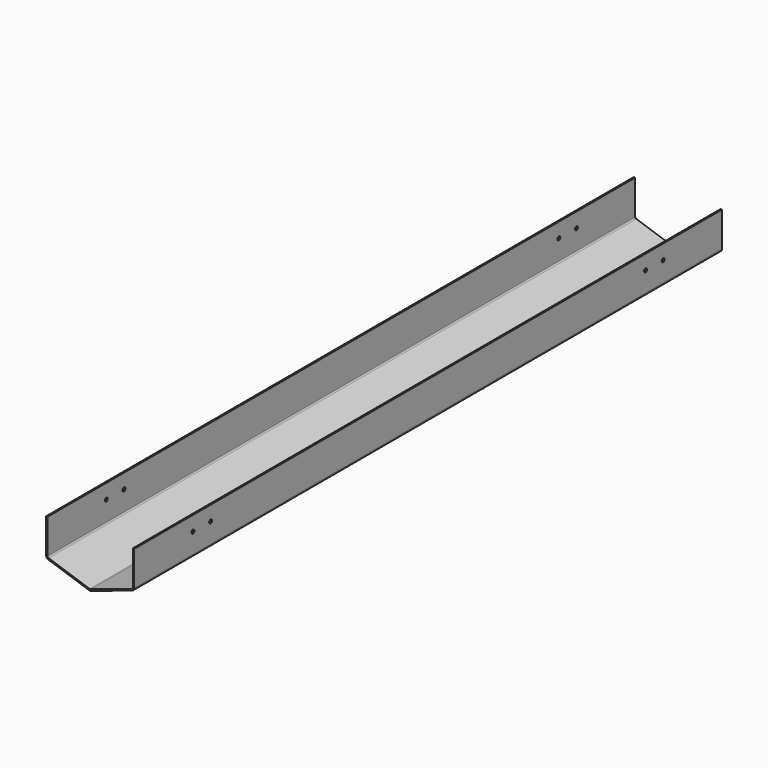
from build123d import *

# Parameters (mm, degrees)
F1_DEPTH = 1000
F2_R     = 4
F3_R     = 2
F5_D     = 5


with BuildPart() as f1:
    # F0 (on Front) → F1 (new body)
    with BuildSketch(Plane.XZ):
        Polygon((-60, 20), (0, 0), (60, 20), (60, 70), (58, 70), (58, 21.441518), (0, 2.108185), (-58, 21.441518), (-58, 70), (-60, 70), align=None)
    extrude(amount=F1_DEPTH)

    # F2
    f2_edges = [f1.edges().sort_by_distance(p)[0] for p in [
        (60, -500, 20),
        (0, -500, 0),
        (-60, -500, 20),
    ]]
    fillet(f2_edges, radius=F2_R)

    # F3
    f3_edges = [f1.edges().sort_by_distance(p)[0] for p in [
        (-58, -500, 21.441518),
        (0, -500, 2.108185),
        (58, -500, 21.441518),
    ]]
    fillet(f3_edges, radius=F3_R)

    # F5 (through all)
    with Locations(Plane(origin=(-60, 0, 0), x_dir=(0, -1, 0), z_dir=(-1, 0, 0))):
        with Locations((100, 50), (130, 50), (870, 50), (900, 50)):
            Hole(F5_D / 2)


solid = f1.part
